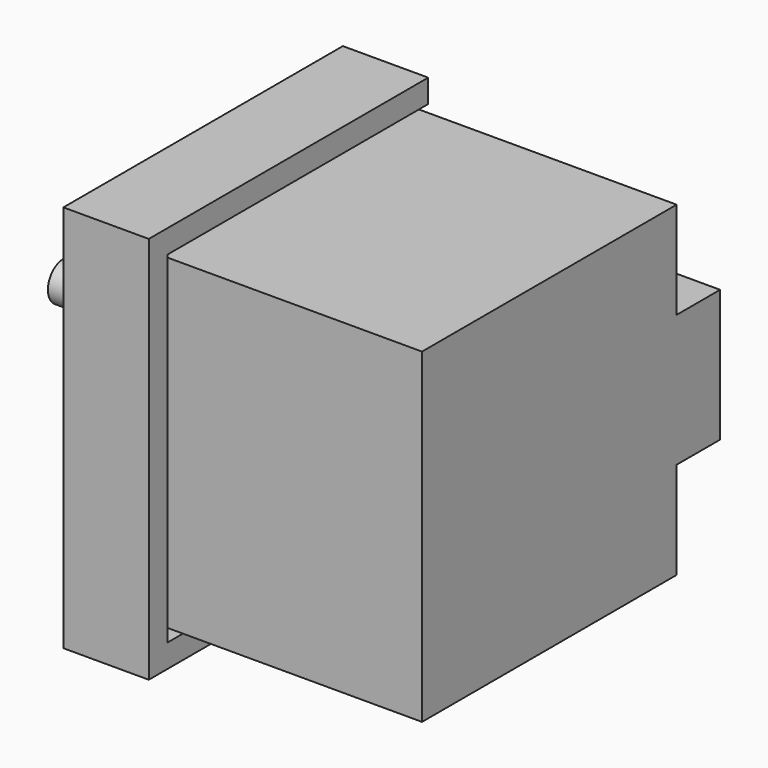
from build123d import *

# Parameters (mm, degrees)
BOX009_W                  = 41
BOX009_H                  = 42
BOX009_DEPTH              = 40
BOX008_W                  = 7
BOX008_H                  = 17
BOX008_DEPTH              = 10
CYLINDER004_R             = 2.5
CYLINDER004_DEPTH         = 25
CYLINDER005_R             = 2.5
CYLINDER005_DEPTH         = 4
BOX012_W                  = 45
BOX012_H                  = 3
BOX012_DEPTH              = 8
BOX011_W                  = 3
BOX011_H                  = 50
BOX011_DEPTH              = 8
BOX010_W                  = 45
BOX010_H                  = 50
BOX010_DEPTH              = 3
FUSION005_ROLL_ANGLE      = -90
FUSION005_PLACEMENT_ANGLE = 90


with BuildPart() as base_motor001:
    # Box009 → Box009 (new body)
    with BuildSketch(Plane(origin=(4, 4, 0), x_dir=(1, 0, 0), z_dir=(0, 0, 1))):
        with Locations((20.5, 21)):
            Rectangle(BOX009_W, BOX009_H)
    extrude(amount=BOX009_DEPTH)


with BuildPart() as obj1:
    # Box008 → Box008 (new body)
    with BuildSketch(Plane(origin=(45, 16.5, 0), x_dir=(1, 0, 0), z_dir=(0, 0, 1))):
        with Locations((3.5, 8.5)):
            Rectangle(BOX008_W, BOX008_H)
    extrude(amount=BOX008_DEPTH)


with BuildPart() as motor001:
    # Cylinder004 → Cylinder004 (new body)
    with BuildSketch(Plane(origin=(25, 25, 38), x_dir=(1, 0, 0), z_dir=(0, 0, 1))):
        Circle(CYLINDER004_R)
    extrude(amount=CYLINDER004_DEPTH)

    # Fusion007: union base motor001, obj1
    add(base_motor001.part)
    add(obj1.part)


with BuildPart() as obj2:
    # Cylinder005 → Cylinder005 (new body)
    with BuildSketch(Plane(origin=(10, 10, 43), x_dir=(1, 0, 0), z_dir=(0, 0, 1))):
        Circle(CYLINDER005_R)
    extrude(amount=CYLINDER005_DEPTH)


with BuildPart() as obj3:
    # Link009 base: copy of obj2
    add(obj2.part)


with BuildPart() as obj3_1:
    # Link009 placement: moved
    add(obj3.part.moved(Location((30, 30, 0))))


with BuildPart() as obj4:
    # Link010 base: copy of obj2
    add(obj2.part)


with BuildPart() as obj4_1:
    # Link010 placement: moved
    add(obj4.part.moved(Location((30, 0, 0))))


with BuildPart() as obj5:
    # Link007 base: copy of obj2
    add(obj2.part)


with BuildPart() as obj5_1:
    # Link007 placement: moved
    add(obj5.part.moved(Location((0, 30, 0))))


with BuildPart() as obj6:
    # Box012 → Box012 (new body)
    with BuildSketch(Plane.XY.offset(32)):
        with Locations((22.5, 1.5)):
            Rectangle(BOX012_W, BOX012_H)
    extrude(amount=BOX012_DEPTH)


with BuildPart() as lateral_der001:
    # Link008 base: copy of obj6
    add(obj6.part)


with BuildPart() as lateral_der001_1:
    # Link008 placement: moved
    add(lateral_der001.part.moved(Location((0, 47, 0))))


with BuildPart() as obj7:
    # Box011 → Box011 (new body)
    with BuildSketch(Plane.XY.offset(32)):
        with Locations((1.5, 25)):
            Rectangle(BOX011_W, BOX011_H)
    extrude(amount=BOX011_DEPTH)


with BuildPart() as obj8:
    # Box010 → Box010 (new body)
    with BuildSketch(Plane.XY.offset(40)):
        with Locations((22.5, 25)):
            Rectangle(BOX010_W, BOX010_H)
    extrude(amount=BOX010_DEPTH)

    # Fusion006: union obj6, lateral der001, obj7
    add(obj6.part)
    add(lateral_der001_1.part)
    add(obj7.part)

    # Fusion005: union motor001, obj3, obj4, obj5, obj2
    add(motor001.part)
    add(obj3_1.part)
    add(obj4_1.part)
    add(obj5_1.part)
    add(obj2.part)


with BuildPart() as obj8_1:
    # Fusion005 roll: moved
    add(obj8.part.rotate(Axis((0, 0, 0), (1, 0, 0)), FUSION005_ROLL_ANGLE))


with BuildPart() as obj8_2:
    # Fusion005 placement: moved
    add(obj8_1.part.moved(Location((152, -22.5, 55))).rotate(Axis((152, -22.5, 55), (0, 0, 1)), FUSION005_PLACEMENT_ANGLE))


solid = obj8_2.part
